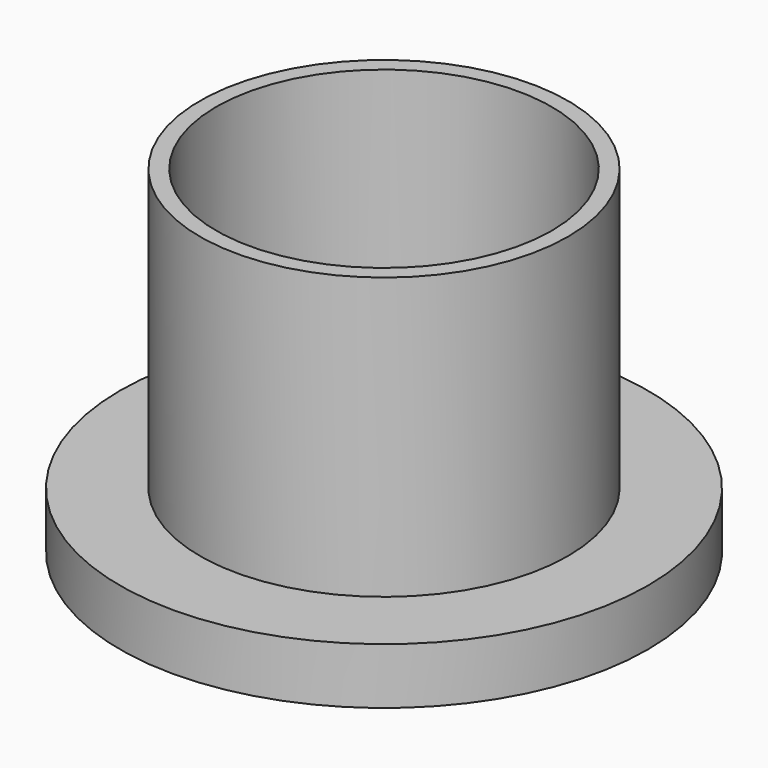
from build123d import *

# Parameters (mm, degrees)
F0_R     = 16.62675
F0_R_2   = 15.159074
F1_DEPTH = 25.4
F2_R     = 23.851793
F3_DEPTH = 5.08


with BuildPart() as f1:
    # F0 (on Top) → F1 (new body)
    with BuildSketch(Plane.XY):
        Circle(F0_R)
        Circle(F0_R_2, mode=Mode.SUBTRACT)
    extrude(amount=F1_DEPTH)

    # F2 (on Top) → F3 (join)
    with BuildSketch(Plane.XY):
        Circle(F2_R)
    extrude(amount=-F3_DEPTH)


solid = f1.part
